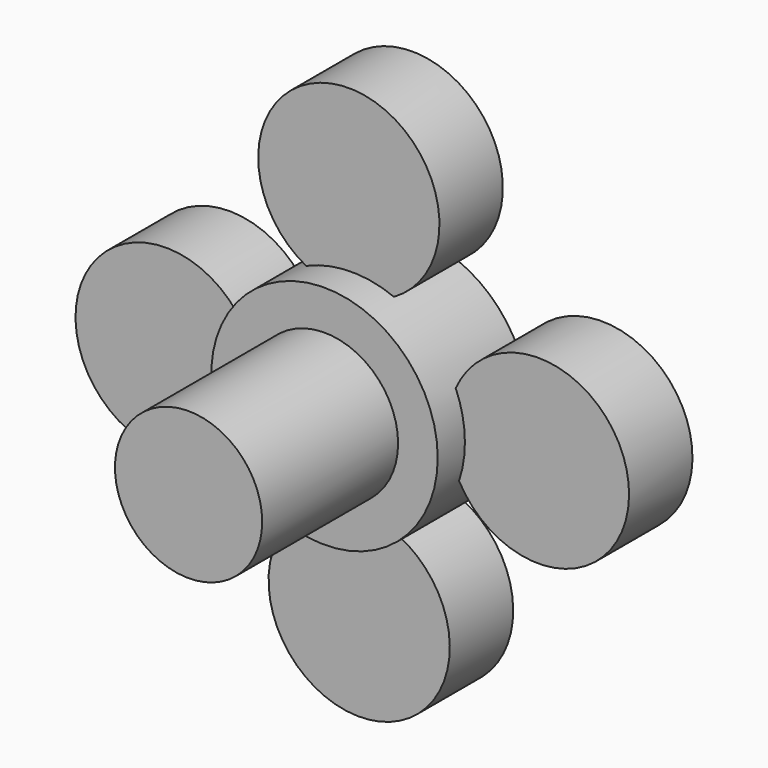
from build123d import *

# Parameters (mm, degrees)
CYLINDER011_R          = 8
CYLINDER011_DEPTH      = 7
CYLINDER012_R          = 8
CYLINDER012_DEPTH      = 7
CYLINDER010_R          = 8
CYLINDER010_DEPTH      = 7
CYLINDER009_R          = 8
CYLINDER009_DEPTH      = 7
CYLINDER005_R          = 6.5
CYLINDER005_DEPTH      = 25
CYLINDER006_R          = 10
CYLINDER006_DEPTH      = 10
FUSION_ROLL_ANGLE      = 90
FUSION_PITCH_ANGLE     = -7e-06
FUSION_PLACEMENT_ANGLE = 7e-06


with BuildPart() as cylinder011:
    # Cylinder011 → Cylinder011 (new body)
    with BuildSketch(Plane(origin=(16.4955, 0.685902, 0), x_dir=(1, 0, 0), z_dir=(0, 0, 1))):
        Circle(CYLINDER011_R)
    extrude(amount=CYLINDER011_DEPTH)


with BuildPart() as cylinder012:
    # Cylinder012 → Cylinder012 (new body)
    with BuildSketch(Plane(origin=(-16.3838, -1.44516, 0), x_dir=(1, 0, 0), z_dir=(0, 0, 1))):
        Circle(CYLINDER012_R)
    extrude(amount=CYLINDER012_DEPTH)


with BuildPart() as cylinder010:
    # Cylinder010 → Cylinder010 (new body)
    with BuildSketch(Plane(origin=(0.664718, -16.3626, 0), x_dir=(1, 0, 0), z_dir=(0, 0, 1))):
        Circle(CYLINDER010_R)
    extrude(amount=CYLINDER010_DEPTH)


with BuildPart() as cylinder009:
    # Cylinder009 → Cylinder009 (new body)
    with BuildSketch(Plane(origin=(-0.248596, 16.2122, 0), x_dir=(1, 0, 0), z_dir=(0, 0, 1))):
        Circle(CYLINDER009_R)
    extrude(amount=CYLINDER009_DEPTH)


with BuildPart() as cylinder005:
    # Cylinder005 → Cylinder005 (new body)
    with BuildSketch(Plane.XY):
        Circle(CYLINDER005_R)
    extrude(amount=CYLINDER005_DEPTH)


with BuildPart() as fusion:
    # Cylinder006 → Cylinder006 (new body)
    with BuildSketch(Plane.XY):
        Circle(CYLINDER006_R)
    extrude(amount=CYLINDER006_DEPTH)

    # Fusion: union Cylinder011, Cylinder012, Cylinder010, Cylinder009, Cylinder005
    add(cylinder011.part)
    add(cylinder012.part)
    add(cylinder010.part)
    add(cylinder009.part)
    add(cylinder005.part)


with BuildPart() as fusion_1:
    # Fusion roll: moved
    add(fusion.part.rotate(Axis((0, 0, 0), (1, 0, 0)), FUSION_ROLL_ANGLE))


with BuildPart() as fusion_2:
    # Fusion pitch: moved
    add(fusion_1.part.rotate(Axis((0, 0, 0), (0, 1, 0)), FUSION_PITCH_ANGLE))


with BuildPart() as fusion_3:
    # Fusion placement: moved
    add(fusion_2.part.moved(Location((22, 77, -12))).rotate(Axis((22, 77, -12), (0, 0, 1)), FUSION_PLACEMENT_ANGLE))


solid = fusion_3.part
